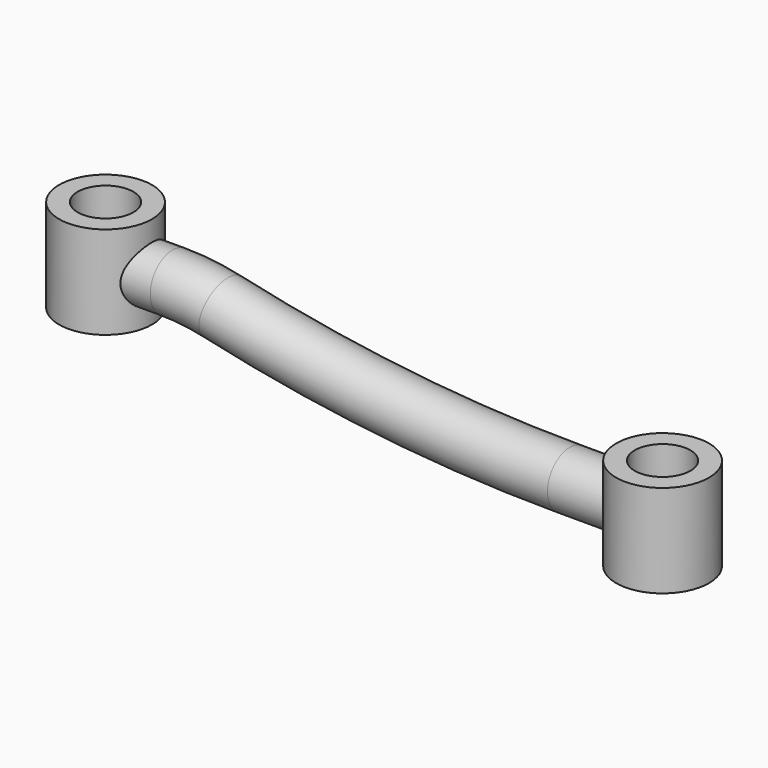
from build123d import *

# Parameters (mm, degrees)
F1_R      = 7.5
F3_R      = 12.5
F3_R_2    = 7.5
F4_DEPTH  = 25
F5_DEPTH  = 25.0010001
F7_R      = 12.5
F8_DEPTH  = 12.5
F9_R      = 7.5
F10_DEPTH = 37.5010001


with BuildPart() as f2:
    # F2: sweep along a path in F0
    with BuildLine(Plane.XZ) as f2_path:
        Line((150, 0), (125, 0))
        ThreePointArc((125, 0), (77.8751511279, 2.6352872081), (31.3379403225, 10.5082872928))
        ThreePointArc((31.3379403225, 10.5082872928), (24.7317116593, 11.6259056014), (18.042064343, 12))
        Line((18.042064343, 12), (0, 12))
    # F1 (on Right) → F2 (sweep)
    with BuildSketch(Plane.YZ):
        with Locations((0, 12)):
            Circle(F1_R)
    sweep(path=f2_path.line)

    # F3 (on Top) → F4 (join)
    with BuildSketch(Plane.XY):
        Circle(F3_R)
        Circle(F3_R_2, mode=Mode.SUBTRACT)
        Circle(F3_R_2)
    extrude(amount=F4_DEPTH)

    # F3 (on Top) → F5 (cut, through all)
    with BuildSketch(Plane.XY):
        Circle(F3_R_2)
    extrude(amount=F5_DEPTH, mode=Mode.SUBTRACT)

    # F7 (on Top) → F8 (join, symmetric)
    with BuildSketch(Plane.XY):
        with Locations((150, 0)):
            Circle(F7_R)
    extrude(amount=F8_DEPTH, both=True)

    # F9 (on face) → F10 (cut, through all)
    with BuildSketch(Plane(origin=(0, 0, -12.5), x_dir=(1, 0, 0), z_dir=(0, 0, -1))):
        with Locations((150, 0)):
            Circle(F9_R)
    extrude(amount=-F10_DEPTH, mode=Mode.SUBTRACT)


solid = f2.part
